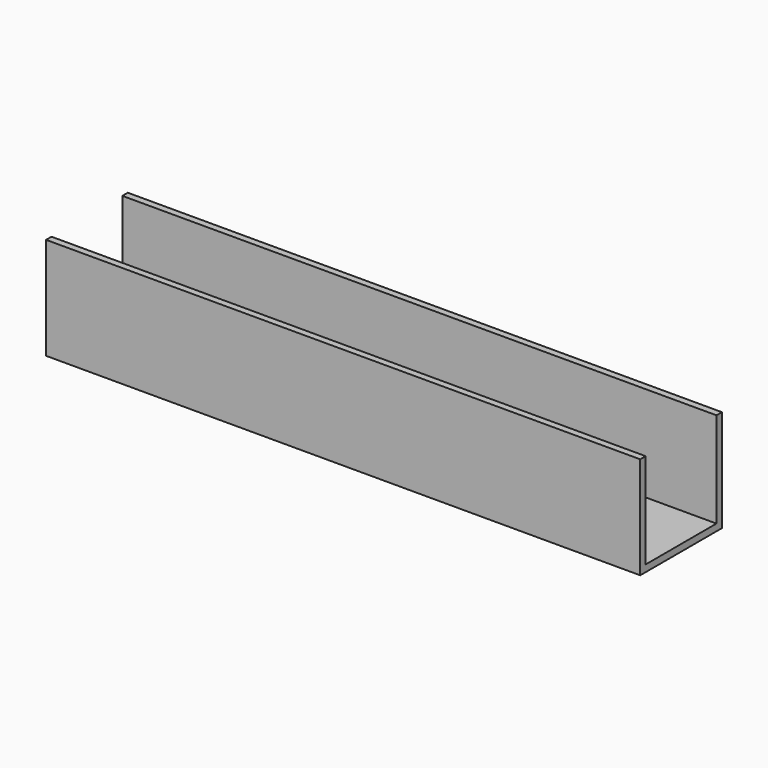
from build123d import *

# Parameters (mm, degrees)
F0_W     = 443.345444
F0_H     = 76.2
F1_DEPTH = 76.2
F2_T     = -5.08


with BuildPart() as f1:
    # F0 (on Top) → F1 (new body)
    with BuildSketch(Plane.XY):
        Rectangle(F0_W, F0_H)
    extrude(amount=F1_DEPTH)

    # F2
    f2_openings = [f1.faces().sort_by_distance(p)[0] for p in [
        (0, 0, 76.2),
        (-221.672722, 0, 38.1),
        (221.672722, 0, 38.1),
    ]]
    offset(amount=F2_T, openings=f2_openings)


solid = f1.part
